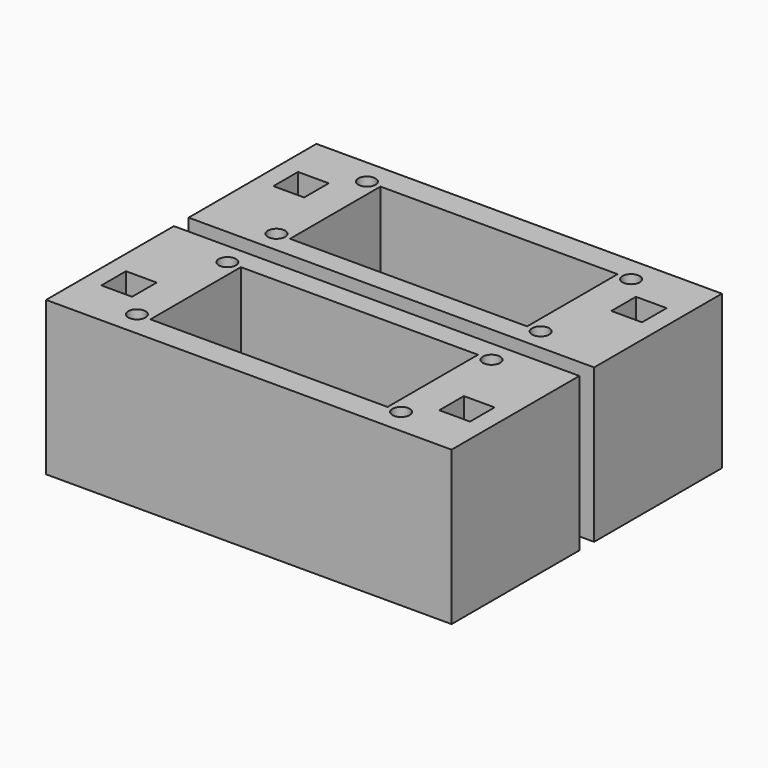
from build123d import *

# Parameters (mm, degrees)
F0_W     = 66
F0_H     = 55
F0_R     = 1.4
F0_W_2   = 5
F0_H_2   = 5
F0_W_3   = 38.6
F0_H_3   = 18.4
F1_DEPTH = 25
F2_W     = 66
F2_H     = 3
F3_DEPTH = 25


with BuildPart() as f1:
    # F0 (on Top) → F1 (new body)
    with BuildSketch(Plane.XY):
        Rectangle(F0_W, F0_H)
        with Locations((-21.5, -23.4)):
            Circle(F0_R, mode=Mode.SUBTRACT)
        with Locations((-27.5, -17.5)):
            Rectangle(F0_W_2, F0_H_2, mode=Mode.SUBTRACT)
        with Locations((-21.5, -5)):
            Circle(F0_R, mode=Mode.SUBTRACT)
        with Locations((0, -14.2)):
            Rectangle(F0_W_3, F0_H_3, mode=Mode.SUBTRACT)
        with Locations((21.5, -23.4)):
            Circle(F0_R, mode=Mode.SUBTRACT)
        with Locations((27.5, -17.5)):
            Rectangle(F0_W_2, F0_H_2, mode=Mode.SUBTRACT)
        with Locations((21.5, -5)):
            Circle(F0_R, mode=Mode.SUBTRACT)
        with Locations((-21.5, 5)):
            Circle(F0_R, mode=Mode.SUBTRACT)
        with Locations((-27.5, 17.5)):
            Rectangle(F0_W_2, F0_H_2, mode=Mode.SUBTRACT)
        with Locations((-21.5, 23.4)):
            Circle(F0_R, mode=Mode.SUBTRACT)
        with Locations((21.5, 5)):
            Circle(F0_R, mode=Mode.SUBTRACT)
        with Locations((0, 14.2)):
            Rectangle(F0_W_3, F0_H_3, mode=Mode.SUBTRACT)
        with Locations((27.5, 17.5)):
            Rectangle(F0_W_2, F0_H_2, mode=Mode.SUBTRACT)
        with Locations((21.5, 23.4)):
            Circle(F0_R, mode=Mode.SUBTRACT)
    extrude(amount=F1_DEPTH)

    # F2 (on face) → F3 (cut)
    with BuildSketch(Plane.XY.offset(25)):
        Rectangle(F2_W, F2_H)
    extrude(amount=-F3_DEPTH, mode=Mode.SUBTRACT)


solid = f1.part
